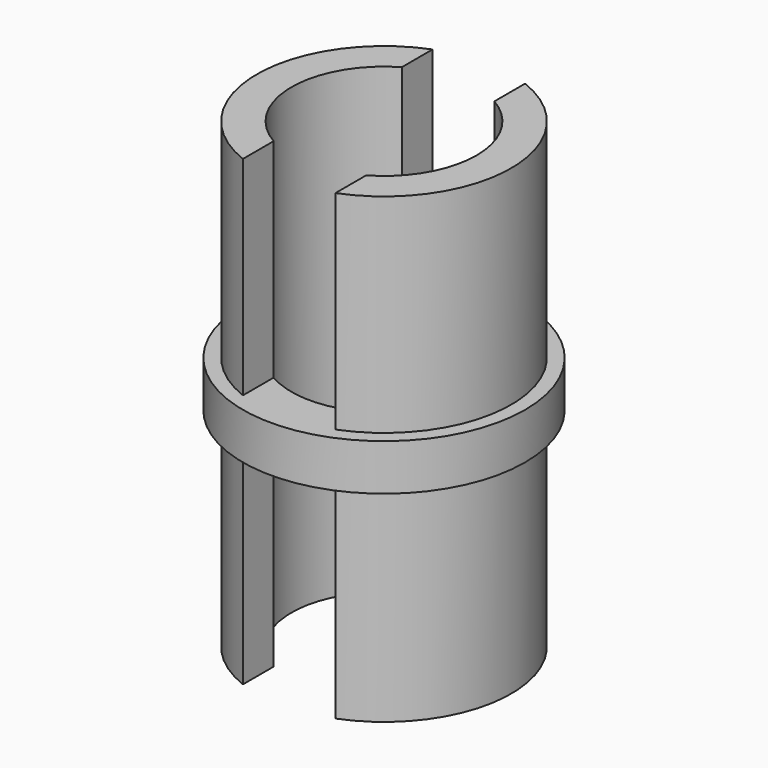
from build123d import *

# Parameters (mm, degrees)
F0_R     = 2.75
F1_DEPTH = 5
F2_R     = 3.05
F3_DEPTH = 0.5
F4_R     = 2
F5_DEPTH = 25
F6_W     = 2
F6_H     = 8.049181
F7_DEPTH = 4.5
F8_W     = 2
F8_H     = 8.049182
F9_DEPTH = 4.5


with BuildPart() as f1:
    # F0 (on Top) → F1 (new body, symmetric)
    with BuildSketch(Plane.XY):
        Circle(F0_R)
    extrude(amount=F1_DEPTH, both=True)

    # F2 (on Top) → F3 (join, symmetric)
    with BuildSketch(Plane.XY):
        Circle(F2_R)
    extrude(amount=F3_DEPTH, both=True)

    # F4 (on face) → F5 (cut)
    with BuildSketch(Plane.XY.offset(5)):
        Circle(F4_R)
    extrude(amount=-F5_DEPTH, mode=Mode.SUBTRACT)

    # F6 (on face) → F7 (cut)
    with BuildSketch(Plane.XY.offset(5)):
        with Locations((0, -0.130544)):
            Rectangle(F6_W, F6_H)
    extrude(amount=-F7_DEPTH, mode=Mode.SUBTRACT)

    # F8 (on face) → F9 (cut)
    with BuildSketch(Plane(origin=(0, 0, -5), x_dir=(1, 0, 0), z_dir=(0, 0, -1))):
        Rectangle(F8_W, F8_H)
    extrude(amount=-F9_DEPTH, mode=Mode.SUBTRACT)


solid = f1.part
